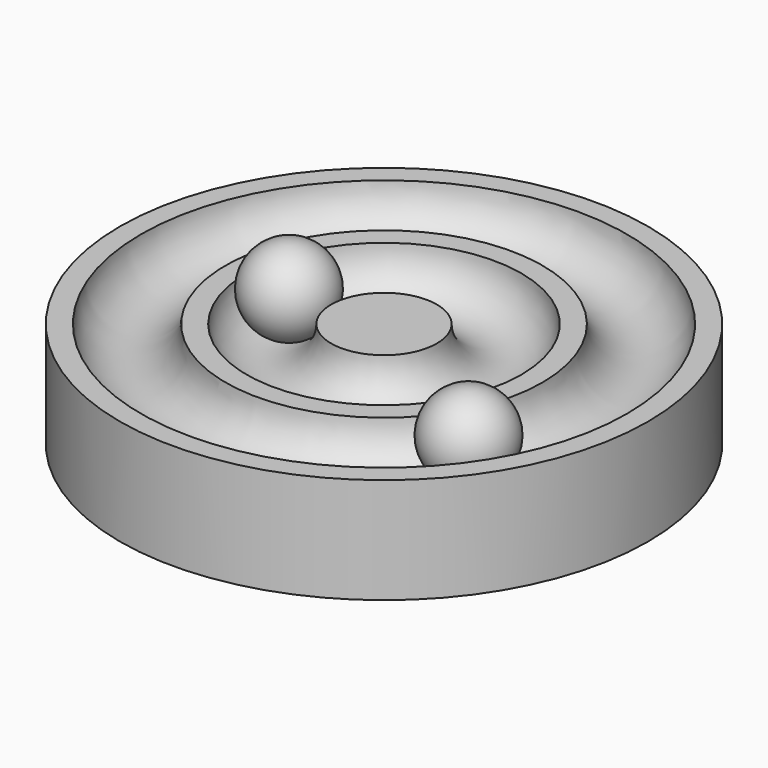
from build123d import *

# Parameters (mm, degrees)
TORUS001_R     = 4
TORUS_R        = 4
CYLINDER_R     = 25
CYLINDER_DEPTH = 10


with BuildPart() as torus001:
    # Torus001 → Torus001 (revolve)
    with BuildSketch(Plane(origin=(0, 0, 10), x_dir=(1, 0, 0), z_dir=(0, -1, 0))):
        with Locations((9, 0)):
            Circle(TORUS001_R)
    revolve(axis=Axis((0, 0, 10), (0, 0, 1)))


with BuildPart() as torus:
    # Torus → Torus (revolve)
    with BuildSketch(Plane(origin=(0, 0, 10), x_dir=(1, 0, 0), z_dir=(0, -1, 0))):
        with Locations((19, 0)):
            Circle(TORUS_R)
    revolve(axis=Axis((0, 0, 10), (0, 0, 1)))


with BuildPart() as cut001:
    # Cylinder → Cylinder (new body)
    with BuildSketch(Plane.XY):
        Circle(CYLINDER_R)
    extrude(amount=CYLINDER_DEPTH)

    # Cut: cut Torus
    add(torus.part, mode=Mode.SUBTRACT)

    # Cut001: cut Torus001
    add(torus001.part, mode=Mode.SUBTRACT)


with BuildPart() as esfera:
    # Sphere → Sphere (revolve)
    with BuildSketch(Plane(origin=(-9, 0, 10), x_dir=(-1, 0, 0), z_dir=(0, 1, 0))):
        with BuildLine():
            ThreePointArc((0, -4), (4, 0), (0, 4))
            Line((0, 4), (0, -4))
        make_face()
    revolve(axis=Axis((-9, 0, 10), (0, 0, 1)))


with BuildPart() as esfera001:
    # Sphere001 → Sphere001 (revolve)
    with BuildSketch(Plane(origin=(16, -10, 10), x_dir=(-1, 0, 0), z_dir=(0, 1, 0))):
        with BuildLine():
            ThreePointArc((0, -4), (4, 0), (0, 4))
            Line((0, 4), (0, -4))
        make_face()
    revolve(axis=Axis((16, -10, 10), (0, 0, 1)))


solid = Compound([cut001.part, esfera.part, esfera001.part])
